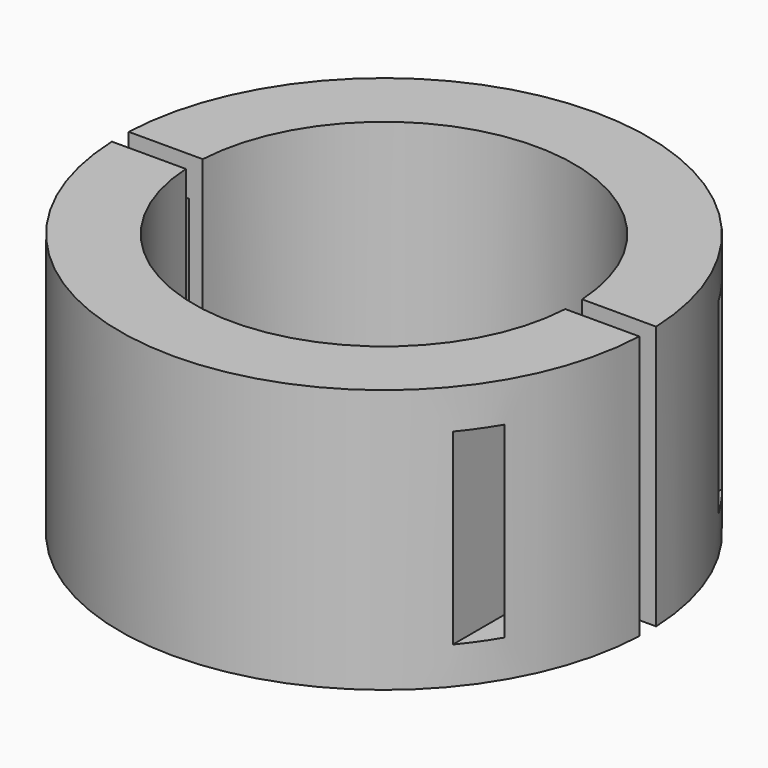
from build123d import *

# Parameters (mm, degrees)
F1_DEPTH      = 25
F2_W          = 2.2795144469
F2_H          = 17.7612202242
F3_DEPTH      = 25
F3_DEPTH_BACK = 25
F5_R          = 3
F6_DEPTH      = 13.8
F6_TAPER      = -6


with BuildPart() as f1:
    # F0 (on Top) → F1 (new body)
    with BuildSketch(Plane.XY):
        with BuildLine():
            Line((17.9722007556, 1), (24.9799919936, 1))
            ThreePointArc((24.9799919936, 1), (0, 25), (-24.9799919936, 1))
            Line((-24.9799919936, 1), (-17.9722007556, 1))
            ThreePointArc((-17.9722007556, 1), (0, 18), (17.9722007556, 1))
        make_face()
    extrude(amount=F1_DEPTH)


with BuildPart() as f1b:
    # F0 (on Top) → F1, piece 2 (new body)
    with BuildSketch(Plane.XY):
        with BuildLine():
            ThreePointArc((17.9722007556, -1), (0, -18), (-17.9722007556, -1))
            Line((-17.9722007556, -1), (-24.9799919936, -1))
            ThreePointArc((-24.9799919936, -1), (0, -25), (24.9799919936, -1))
            Line((24.9799919936, -1), (17.9722007556, -1))
        make_face()
    extrude(amount=F1_DEPTH)


with BuildPart() as f3_tool:
    # F2 (on Front) → F3 (new body, two sides)
    with BuildSketch(Plane.XZ) as f3_sk:
        with Locations((20.4039188102, 12.3949158005)):
            Rectangle(F2_W, F2_H)
        with Locations((-20.4039188102, 12.3949158005)):
            Rectangle(F2_W, F2_H)
    extrude(amount=-F3_DEPTH)
    extrude(f3_sk.sketch, amount=F3_DEPTH_BACK)


with BuildPart() as f1_1:
    add(f1.part)

    # F3: cut by f3_tool
    add(f3_tool.part, mode=Mode.SUBTRACT)

    # F5 (on offset) → F6 (join)
    with BuildSketch(Plane.XZ.offset(-35)):
        with Locations((0, 12.7789061517)):
            Circle(F5_R)
    extrude(amount=F6_DEPTH, taper=F6_TAPER)


with BuildPart() as f1b_1:
    add(f1b.part)

    # F3: cut by f3_tool
    add(f3_tool.part, mode=Mode.SUBTRACT)


solid = Compound([f1_1.part, f1b_1.part])
